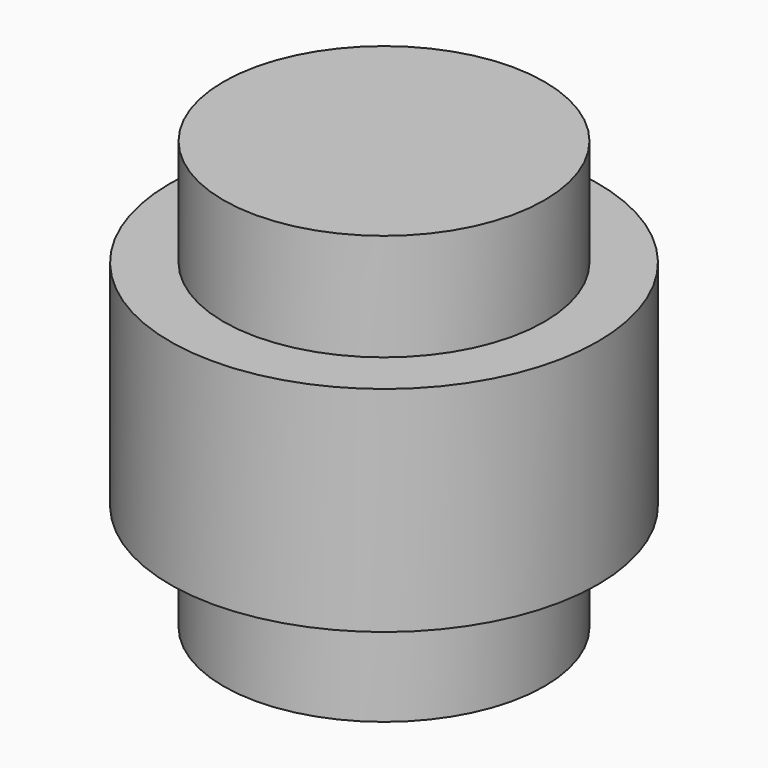
from build123d import *

# Parameters (mm, degrees)
F0_R     = 19.05
F1_DEPTH = 25.4
F0_R_2   = 25.4
F2_DEPTH = 12.7


with BuildPart() as f1:
    # F0 (on Top) → F1 (new body, symmetric)
    with BuildSketch(Plane.XY):
        Circle(F0_R)
    extrude(amount=F1_DEPTH, both=True)

    # F0 (on Top) → F2 (join, symmetric)
    with BuildSketch(Plane.XY):
        Circle(F0_R_2)
        Circle(F0_R, mode=Mode.SUBTRACT)
    extrude(amount=F2_DEPTH, both=True)


solid = f1.part
